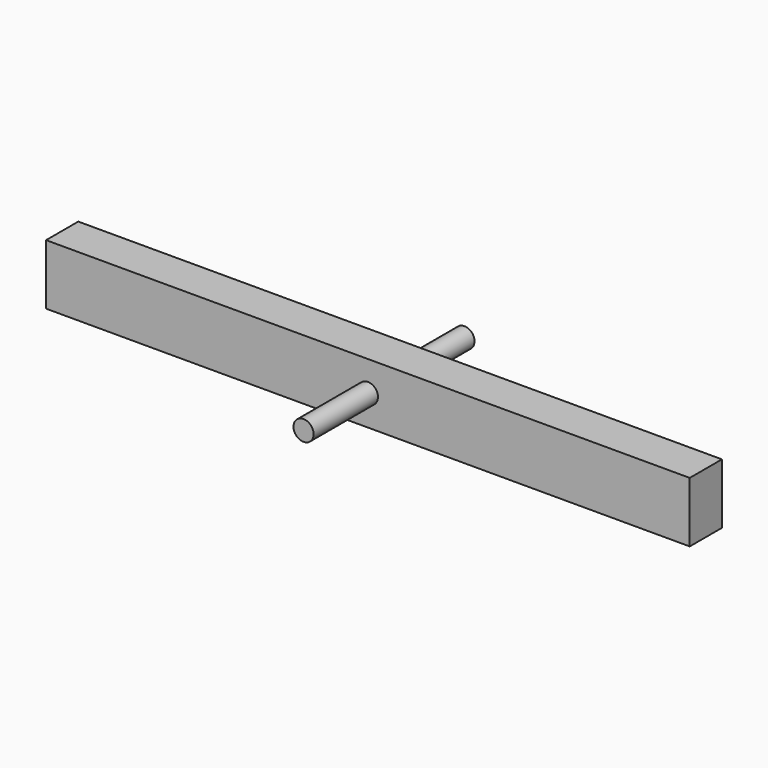
from build123d import *

# Parameters (mm, degrees)
F0_W          = 203.2
F0_H          = 12.7
F1_DEPTH      = 19.05
F2_R          = 3.175
F3_DEPTH      = 25.4
F3_DEPTH_BACK = 38.1


with BuildPart() as f1:
    # F0 (on Top) → F1 (new body)
    with BuildSketch(Plane.XY):
        with Locations((101.6, 6.35)):
            Rectangle(F0_W, F0_H)
    extrude(amount=F1_DEPTH)

    # F2 (on face) → F3 (join, two sides)
    with BuildSketch(Plane(origin=(0, 12.7, 0), x_dir=(-1, 0, 0), z_dir=(0, 1, 0))) as f3_sk:
        with Locations((-101.6, 9.525)):
            Circle(F2_R)
    extrude(amount=F3_DEPTH)
    extrude(f3_sk.sketch, amount=-F3_DEPTH_BACK)


solid = f1.part
